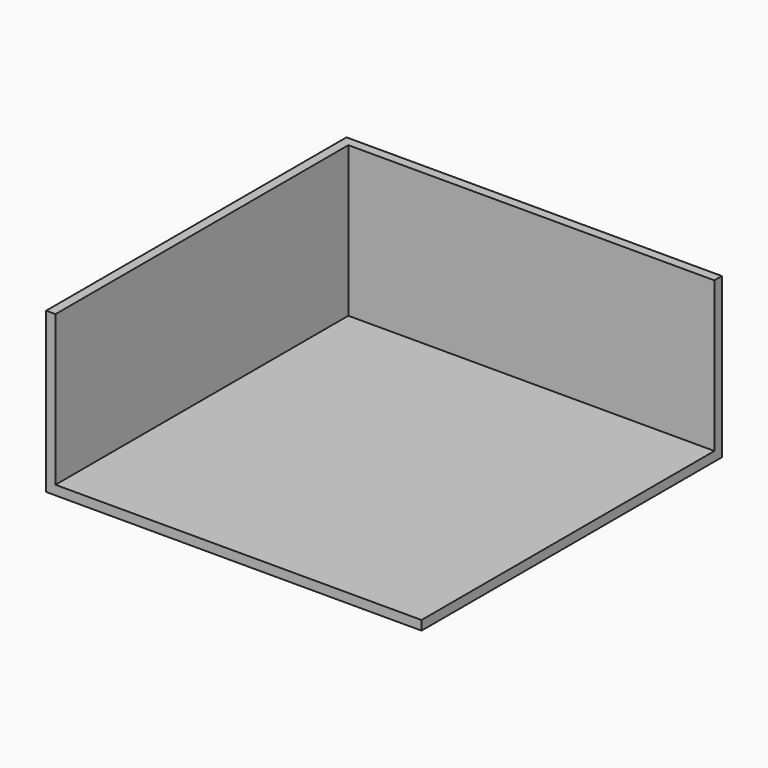
from build123d import *

# Parameters (mm, degrees)
F0_W     = 4012.7088723905
F0_H     = 3850.2824916989
F1_DEPTH = 152.4
F3_DEPTH = 2438.4


with BuildPart() as f1:
    # F0 (on Top) → F1 (new body)
    with BuildSketch(Plane.XY):
        Polygon((3284.4054995306, 3006.1668581814), (-2811.5945004694, 3006.1668581814), (-2811.5945004694, -3089.8331418186), (-728.30337286, -3089.8331418186), (-728.30337286, 760.4493498802), (3284.4054995306, 760.4493498802), align=None)
        with Locations((1278.0510633353, -1164.6918959692)):
            Rectangle(F0_W, F0_H)
    extrude(amount=F1_DEPTH)

    # F2 (on face) → F3 (join)
    with BuildSketch(Plane.XY.offset(152.4)):
        Polygon((-2811.5945004694, -3089.8331418186), (-2659.1945004694, -3089.8331418186), (-2659.1945004694, 2853.7668581814), (3284.4054995306, 2853.7668581814), (3284.4054995306, 3006.1668581814), (-2811.5945004694, 3006.1668581814), align=None)
    extrude(amount=F3_DEPTH)


solid = f1.part
